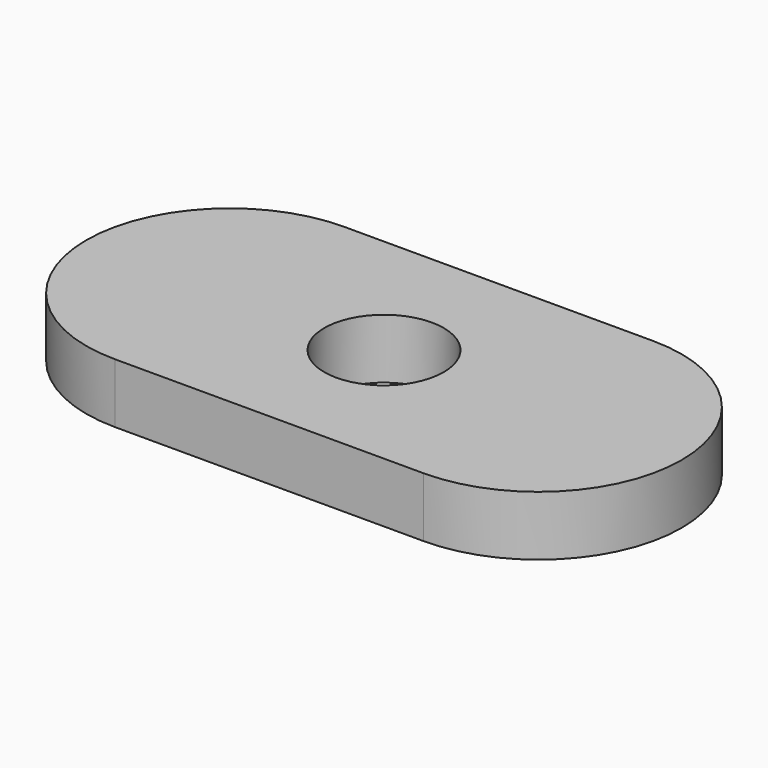
from build123d import *

# Parameters (mm, degrees)
F0_R     = 3
F1_DEPTH = 3


with BuildPart() as f1:
    # F0 (on Top) → F1 (new body)
    with BuildSketch(Plane.XY):
        with BuildLine():
            ThreePointArc((7.75, -7.199044), (14.949044, 0), (7.75, 7.199044))
            Line((7.75, 7.199044), (-7.75, 7.199044))
            ThreePointArc((-7.75, 7.199044), (-14.949044, 0), (-7.75, -7.199044))
            Line((-7.75, -7.199044), (7.75, -7.199044))
        make_face()
        Circle(F0_R, mode=Mode.SUBTRACT)
    extrude(amount=F1_DEPTH)


solid = f1.part
